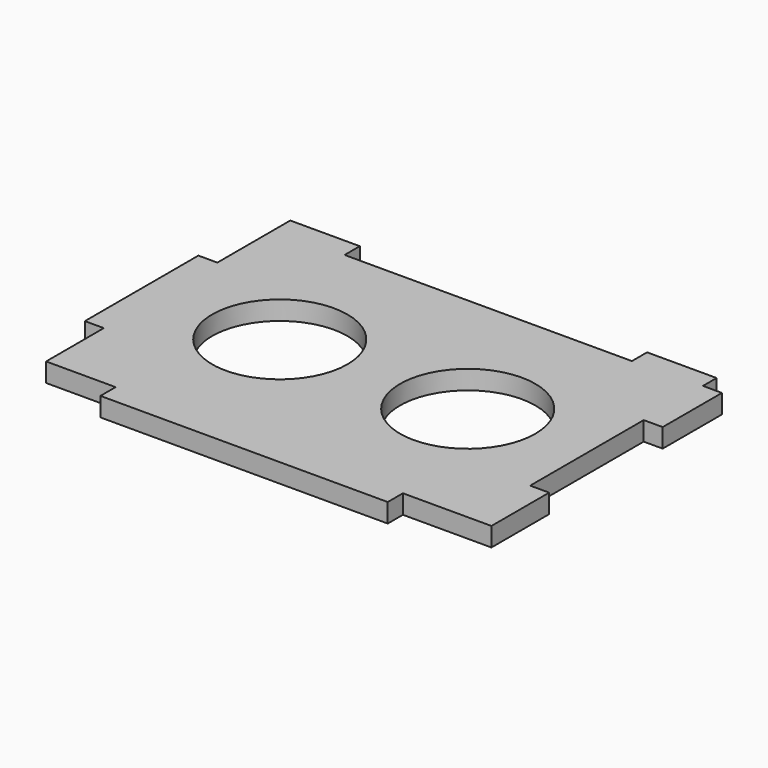
from build123d import *

# Parameters (mm, degrees)
F0_R     = 15.86
F1_DEPTH = 4.45


with BuildPart() as f1:
    # F0 (on Top) → F1 (new body)
    with BuildSketch(Plane.XY):
        Polygon((33.6925, -33.5685), (50, -33.5685), (54.45, -33.5685), (54.45, -16.64242), (50, -16.64242), (50, 16.64242), (54.45, 16.64242), (54.45, 34.008425), (50, 34.008425), (50, 38.0185), (33.6925, 38.0185), (33.6925, 33.5685), (-33.6925, 33.5685), (-33.6925, 38.0185), (-50, 38.0185), (-50, 33.5685), (-50, 16.64242), (-54.45, 16.64242), (-54.45, -16.64242), (-50, -16.64242), (-50, -33.5685), (-33.6925, -33.5685), (-33.6925, -38.0185), (33.6925, -38.0185), align=None)
        with Locations((-22.039123, 0)):
            Circle(F0_R, mode=Mode.SUBTRACT)
        with Locations((22.039123, 0)):
            Circle(F0_R, mode=Mode.SUBTRACT)
    extrude(amount=F1_DEPTH)


solid = f1.part
